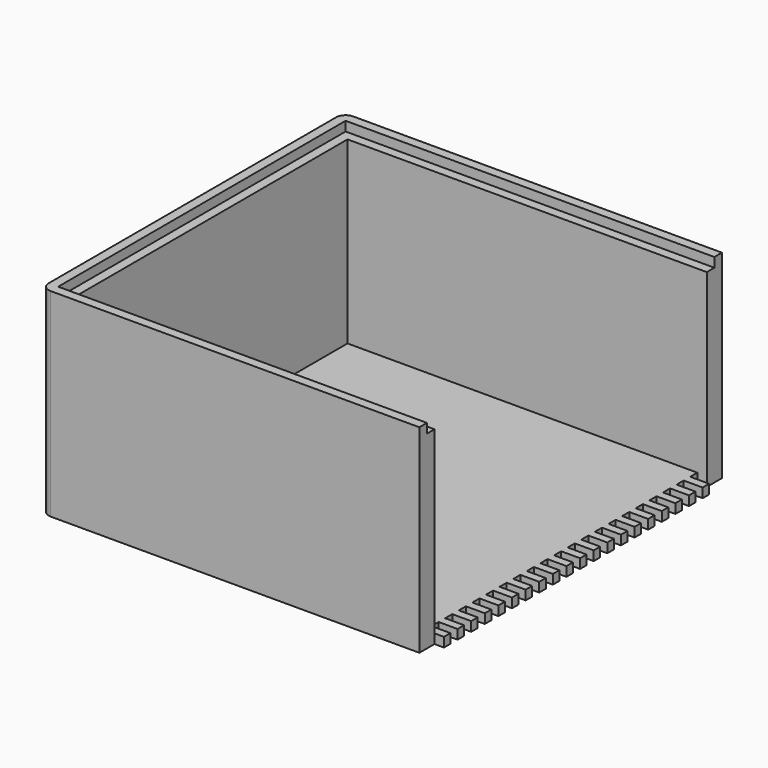
from build123d import *

# Parameters (mm, degrees)
F0_W     = 200
F0_H     = 200
F1_DEPTH = 5
F2_W     = 10
F2_H     = 10
F2_W_2   = 190
F2_H_2   = 180
F3_DEPTH = 100
F5_DEPTH = 5
F6_W     = 5
F6_H     = 4.7
F7_DEPTH = 25
F6_H_2   = 4.3
F8_DEPTH = 5
F9_R     = 5


with BuildPart() as f1:
    # F0 (on Top) → F1 (new body)
    with BuildSketch(Plane.XY):
        Rectangle(F0_W, F0_H)
    extrude(amount=F1_DEPTH)

    # F2 (on face) → F3 (join)
    with BuildSketch(Plane.XY.offset(5)):
        with Locations((-95, 95)):
            Rectangle(F2_W, F2_H)
        with Locations((5, 95)):
            Rectangle(F2_W_2, F2_H)
        with Locations((-95, 0)):
            Rectangle(F2_W, F2_H_2)
        with Locations((-95, -95)):
            Rectangle(F2_W, F2_H)
        with Locations((5, -95)):
            Rectangle(F2_W_2, F2_H)
    extrude(amount=F3_DEPTH)

    # F4 (on face) → F5 (cut)
    with BuildSketch(Plane.XY.offset(105)):
        Polygon((100, 90), (100, 95), (-95, 95), (-95, -95), (100, -95), (100, -90), (-90, -90), (-90, 90), align=None)
    extrude(amount=-F5_DEPTH, mode=Mode.SUBTRACT)

    # F6 (on face) → F7 (cut)
    with BuildSketch(Plane.XY.offset(5)):
        with Locations((97.5, -83.35)):
            Rectangle(F6_W, F6_H)
        with Locations((97.5, -74.35)):
            Rectangle(F6_W, F6_H)
        with Locations((97.5, -65.35)):
            Rectangle(F6_W, F6_H)
        with Locations((97.5, -56.35)):
            Rectangle(F6_W, F6_H)
        with Locations((97.5, -47.35)):
            Rectangle(F6_W, F6_H)
        with Locations((97.5, -38.35)):
            Rectangle(F6_W, F6_H)
        with Locations((97.5, -29.35)):
            Rectangle(F6_W, F6_H)
        with Locations((97.5, -20.35)):
            Rectangle(F6_W, F6_H)
        with Locations((97.5, -11.35)):
            Rectangle(F6_W, F6_H)
        with Locations((97.5, -2.35)):
            Rectangle(F6_W, F6_H)
        with Locations((97.5, 6.65)):
            Rectangle(F6_W, F6_H)
        with Locations((97.5, 15.65)):
            Rectangle(F6_W, F6_H)
        with Locations((97.5, 24.65)):
            Rectangle(F6_W, F6_H)
        with Locations((97.5, 33.65)):
            Rectangle(F6_W, F6_H)
        with Locations((97.5, 42.65)):
            Rectangle(F6_W, F6_H)
        with Locations((97.5, 51.65)):
            Rectangle(F6_W, F6_H)
        with Locations((97.5, 60.65)):
            Rectangle(F6_W, F6_H)
        with Locations((97.5, 69.65)):
            Rectangle(F6_W, F6_H)
        with Locations((97.5, 78.65)):
            Rectangle(F6_W, F6_H)
        with Locations((97.5, 87.65)):
            Rectangle(F6_W, F6_H)
    extrude(amount=-F7_DEPTH, mode=Mode.SUBTRACT)

    # F6 (on face) → F8 (join)
    with BuildSketch(Plane.XY.offset(5)):
        with Locations((102.5, -87.85)):
            Rectangle(F6_W, F6_H_2)
        with Locations((102.5, -78.85)):
            Rectangle(F6_W, F6_H_2)
        with Locations((102.5, -69.85)):
            Rectangle(F6_W, F6_H_2)
        with Locations((102.5, -60.85)):
            Rectangle(F6_W, F6_H_2)
        with Locations((102.5, -51.85)):
            Rectangle(F6_W, F6_H_2)
        with Locations((102.5, -42.85)):
            Rectangle(F6_W, F6_H_2)
        with Locations((102.5, -33.85)):
            Rectangle(F6_W, F6_H_2)
        with Locations((102.5, -24.85)):
            Rectangle(F6_W, F6_H_2)
        with Locations((102.5, -15.85)):
            Rectangle(F6_W, F6_H_2)
        with Locations((102.5, -6.85)):
            Rectangle(F6_W, F6_H_2)
        with Locations((102.5, 2.15)):
            Rectangle(F6_W, F6_H_2)
        with Locations((102.5, 11.15)):
            Rectangle(F6_W, F6_H_2)
        with Locations((102.5, 20.15)):
            Rectangle(F6_W, F6_H_2)
        with Locations((102.5, 29.15)):
            Rectangle(F6_W, F6_H_2)
        with Locations((102.5, 38.15)):
            Rectangle(F6_W, F6_H_2)
        with Locations((102.5, 47.15)):
            Rectangle(F6_W, F6_H_2)
        with Locations((102.5, 56.15)):
            Rectangle(F6_W, F6_H_2)
        with Locations((102.5, 65.15)):
            Rectangle(F6_W, F6_H_2)
        with Locations((102.5, 74.15)):
            Rectangle(F6_W, F6_H_2)
        with Locations((102.5, 83.15)):
            Rectangle(F6_W, F6_H_2)
    extrude(amount=-F8_DEPTH)

    # F9
    f9_edges = [f1.edges().sort_by_distance(p)[0] for p in [
        (-100, -100, 52.5),
        (-100, 100, 52.5),
    ]]
    fillet(f9_edges, radius=F9_R)


solid = f1.part
